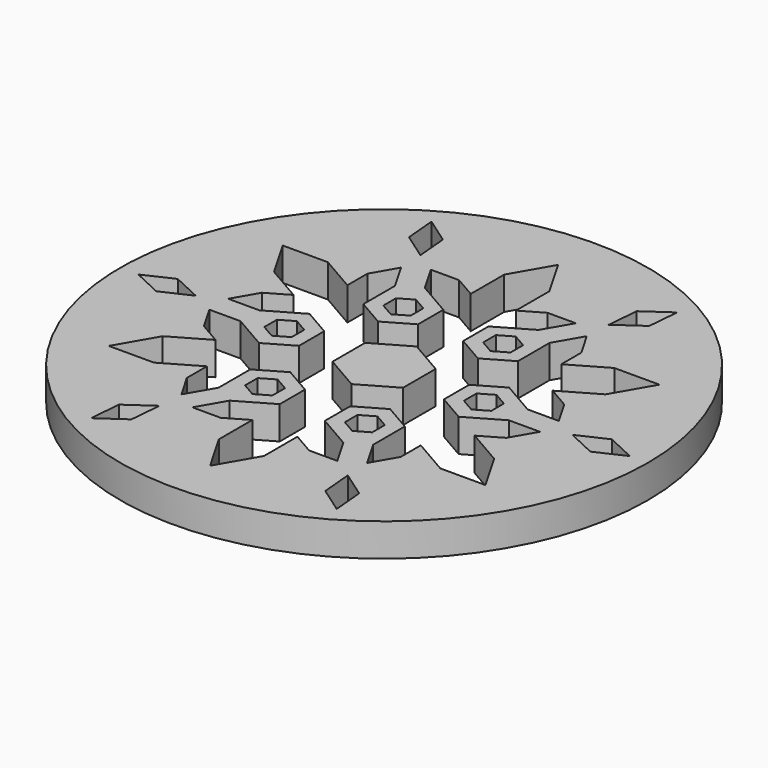
from build123d import *

# Parameters (mm, degrees)
F0_R     = 50.968365
F1_DEPTH = 6.35


with BuildPart() as f1:
    # F0 (on Top) → F1 (new body)
    with BuildSketch(Plane.XY):
        Circle(F0_R)
        Polygon((-23.194751, -35.002316), (-18.182196, -31.492487), (-18.715519, -37.588402), (-23.728075, -41.098231), align=None, mode=Mode.SUBTRACT)
        Polygon((-41.91027, 2.586086), (-36.364391, 0), (-41.91027, -2.586086), (-47.456149, 0), align=None, mode=Mode.SUBTRACT)
        Polygon((-12.276566, -15.167637), (-9.636921, -13.643637), (-6.997276, -15.167637), (-6.997276, -18.215637), (-9.636921, -19.739637), (-12.276566, -18.215637), align=None, mode=Mode.SUBTRACT)
        Polygon((-19.273842, -3.048), (-21.913487, -1.524), (-21.913487, 1.524), (-19.273842, 3.048), (-16.634197, 1.524), (-16.634197, -1.524), align=None, mode=Mode.SUBTRACT)
        Polygon((-4.35763, 34.442345), (0, 41.989982), (4.35763, 34.442345), (4.35763, 26.362316), (8.5457, 28.780299), (13.992773, 28.780299), (10.980901, 23.563584), (4.35763, 19.739637), (4.35763, 13.643637), (9.636921, 10.595637), (14.916212, 13.643637), (14.916212, 21.291532), (17.928084, 26.508247), (20.65162, 21.790943), (20.65162, 16.954976), (27.649131, 20.994991), (36.364391, 20.994991), (32.006761, 13.447354), (25.009251, 9.40734), (29.19732, 6.989357), (31.920857, 2.272053), (25.897113, 2.272053), (19.273842, 6.096), (13.994551, 3.048), (13.994551, -3.048), (19.273842, -6.096), (25.897113, -2.272053), (31.920857, -2.272053), (29.19732, -6.989357), (25.009251, -9.40734), (32.006761, -13.447354), (36.364391, -20.994991), (27.649131, -20.994991), (20.65162, -16.954976), (20.65162, -21.790943), (17.928084, -26.508247), (14.916212, -21.291532), (14.916212, -13.643637), (9.636921, -10.595637), (4.35763, -13.643637), (4.35763, -19.739637), (10.980901, -23.563584), (13.992773, -28.780299), (8.5457, -28.780299), (4.35763, -26.362316), (4.35763, -34.442345), (0, -41.989982), (-4.35763, -34.442345), (-4.35763, -26.362316), (-8.5457, -28.780299), (-13.992773, -28.780299), (-10.980901, -23.563584), (-4.35763, -19.739637), (-4.35763, -13.643637), (-9.636921, -10.595637), (-14.916212, -13.643637), (-14.916212, -21.291532), (-17.928084, -26.508247), (-20.65162, -21.790943), (-20.65162, -16.954976), (-27.649131, -20.994991), (-36.364391, -20.994991), (-32.006761, -13.447354), (-25.009251, -9.40734), (-29.19732, -6.989357), (-31.920857, -2.272053), (-25.897113, -2.272053), (-19.273842, -6.096), (-13.994551, -3.048), (-13.994551, 3.048), (-19.273842, 6.096), (-25.897113, 2.272053), (-31.920857, 2.272053), (-29.19732, 6.989357), (-25.009251, 9.40734), (-32.006761, 13.447354), (-36.364391, 20.994991), (-27.649131, 20.994991), (-20.65162, 16.954976), (-20.65162, 21.790943), (-17.928084, 26.508247), (-14.916212, 21.291532), (-14.916212, 13.643637), (-9.636921, 10.595637), (-4.35763, 13.643637), (-4.35763, 19.739637), (-10.980901, 23.563584), (-13.992773, 28.780299), (-8.5457, 28.780299), (-4.35763, 26.362316), align=None, mode=Mode.SUBTRACT)
        Polygon((18.182196, -31.492487), (23.194751, -35.002316), (23.728075, -41.098231), (18.715519, -37.588402), align=None, mode=Mode.SUBTRACT)
        Polygon((12.276566, -15.167637), (12.276566, -18.215637), (9.636921, -19.739637), (6.997276, -18.215637), (6.997276, -15.167637), (9.636921, -13.643637), align=None, mode=Mode.SUBTRACT)
        Polygon((16.634197, 1.524), (19.273842, 3.048), (21.913487, 1.524), (21.913487, -1.524), (19.273842, -3.048), (16.634197, -1.524), align=None, mode=Mode.SUBTRACT)
        Polygon((-9.636921, 19.739637), (-6.997276, 18.215637), (-6.997276, 15.167637), (-9.636921, 13.643637), (-12.276566, 15.167637), (-12.276566, 18.215637), align=None, mode=Mode.SUBTRACT)
        Polygon((-23.194751, 35.002316), (-23.728075, 41.098231), (-18.715519, 37.588402), (-18.182196, 31.492487), align=None, mode=Mode.SUBTRACT)
        Polygon((6.997276, 18.215637), (9.636921, 19.739637), (12.276566, 18.215637), (12.276566, 15.167637), (9.636921, 13.643637), (6.997276, 15.167637), align=None, mode=Mode.SUBTRACT)
        Polygon((47.456149, 0), (41.91027, -2.586086), (36.364391, 0), (41.91027, 2.586086), align=None, mode=Mode.SUBTRACT)
        Polygon((23.728075, 41.098231), (23.194751, 35.002316), (18.182196, 31.492487), (18.715519, 37.588402), align=None, mode=Mode.SUBTRACT)
        Polygon((6.814862, 3.934563), (0, 7.869125), (-6.814862, 3.934563), (-6.814862, -3.934563), (0, -7.869125), (6.814862, -3.934563), align=None)
    extrude(amount=F1_DEPTH)


solid = f1.part
